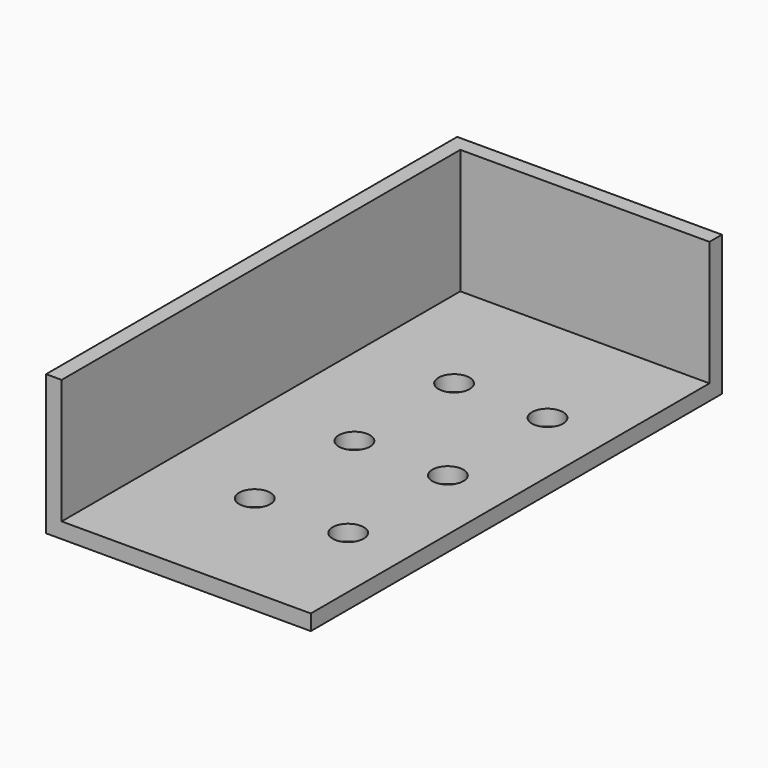
from build123d import *

# Parameters (mm, degrees)
F0_W     = 53.975
F0_H     = 104.775
F1_DEPTH = 3.175
F3_W     = 3.175
F3_H     = 101.6
F4_DEPTH = 25.4
F2_R     = 3.175
F5_DEPTH = 25.4


with BuildPart() as f1:
    # F0 (on Top) → F1 (new body)
    with BuildSketch(Plane.XY):
        Rectangle(F0_W, F0_H)
    extrude(amount=F1_DEPTH)

    # F3 (on face) → F4 (join)
    with BuildSketch(Plane.XY.offset(3.175)):
        Polygon((-23.8125, 49.2125), (26.9875, 49.2125), (26.9875, 52.3875), (-26.9875, 52.3875), (-26.9875, 49.2125), align=None)
        with Locations((-25.4, -1.5875)):
            Rectangle(F3_W, F3_H)
    extrude(amount=F4_DEPTH)

    # F2 (on face) → F5 (cut)
    with BuildSketch(Plane.XY.offset(3.175)):
        with Locations((-4.7625, 23.8125)):
            Circle(F2_R)
        with Locations((14.2875, 23.8125)):
            Circle(F2_R)
        with Locations((-4.7625, -1.5875)):
            Circle(F2_R)
        with Locations((14.2875, -1.5875)):
            Circle(F2_R)
        with Locations((-4.7625, -26.9875)):
            Circle(F2_R)
        with Locations((14.2875, -26.9875)):
            Circle(F2_R)
    extrude(amount=-F5_DEPTH, mode=Mode.SUBTRACT)


solid = f1.part
